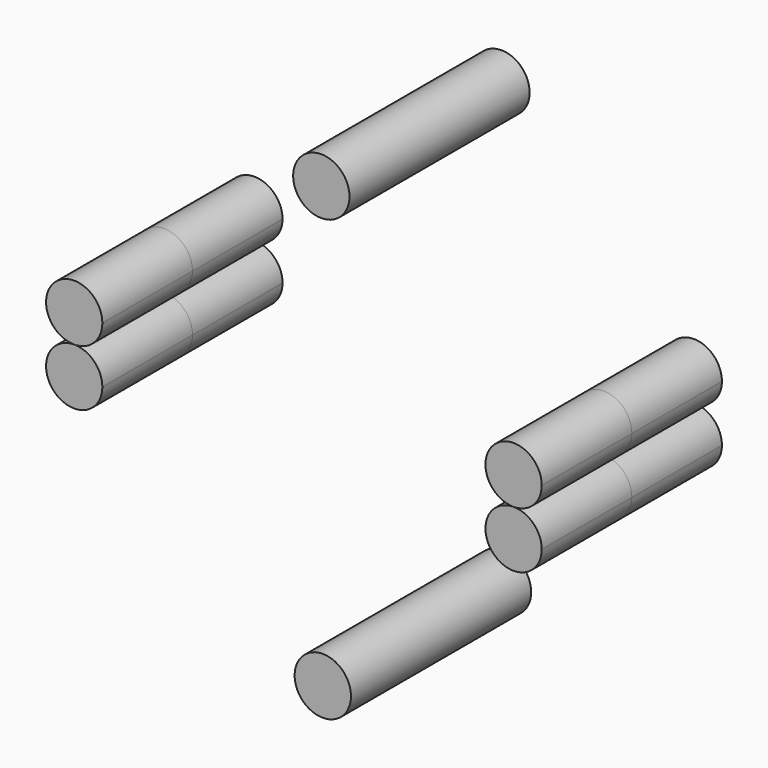
from build123d import *

# Parameters (mm, degrees)
F1_DEPTH = 25.4
F0_R     = 6.35


with BuildPart() as f1:
    # F0 (on Front) → F1 (new body, symmetric)
    with BuildSketch(Plane.XZ):
        with BuildLine():
            ThreePointArc((0, -6.35), (4.4901280605, -4.4901280605), (6.35, 0))
            ThreePointArc((6.35, 0), (-4.4901280605, 4.4901280605), (0, -6.35))
        make_face()
    extrude(amount=F1_DEPTH, both=True)


with BuildPart() as f1b:
    # F0 (on Front) → F1, piece 2 (new body, symmetric)
    with BuildSketch(Plane.XZ):
        with BuildLine():
            ThreePointArc((6.35, -12.7), (4.4901280605, -8.2098719395), (0, -6.35))
            ThreePointArc((0, -6.35), (-4.4901280605, -17.1901280605), (6.35, -12.7))
        make_face()
    extrude(amount=F1_DEPTH, both=True)


with BuildPart() as f1c:
    # F0 (on Front) → F1, piece 3 (new body, symmetric)
    with BuildSketch(Plane.XZ):
        with Locations((56.0715944443, -55.8820392913)):
            Circle(F0_R)
    extrude(amount=F1_DEPTH, both=True)


with BuildPart() as f1d:
    # F0 (on Front) → F1, piece 4 (new body, symmetric)
    with BuildSketch(Plane.XZ):
        with BuildLine():
            ThreePointArc((99.1076529026, -6.35), (94.6175248421, -17.1901280605), (105.4576529026, -12.7))
            ThreePointArc((105.4576529026, -12.7), (103.5977809631, -8.2098719395), (99.1076529026, -6.35))
        make_face()
    extrude(amount=F1_DEPTH, both=True)


with BuildPart() as f1e:
    # F0 (on Front) → F1, piece 5 (new body, symmetric)
    with BuildSketch(Plane.XZ):
        with BuildLine():
            ThreePointArc((105.4576529026, 0), (94.6175248421, 4.4901280605), (99.1076529026, -6.35))
            ThreePointArc((99.1076529026, -6.35), (103.5977809631, -4.4901280605), (105.4576529026, 0))
        make_face()
    extrude(amount=F1_DEPTH, both=True)


with BuildPart() as f1f:
    # F0 (on Front) → F1, piece 6 (new body, symmetric)
    with BuildSketch(Plane.XZ):
        with Locations((55.7359856422, 43.2250453727)):
            Circle(F0_R)
    extrude(amount=F1_DEPTH, both=True)


solid = Compound([f1.part, f1b.part, f1c.part, f1d.part, f1e.part, f1f.part])
